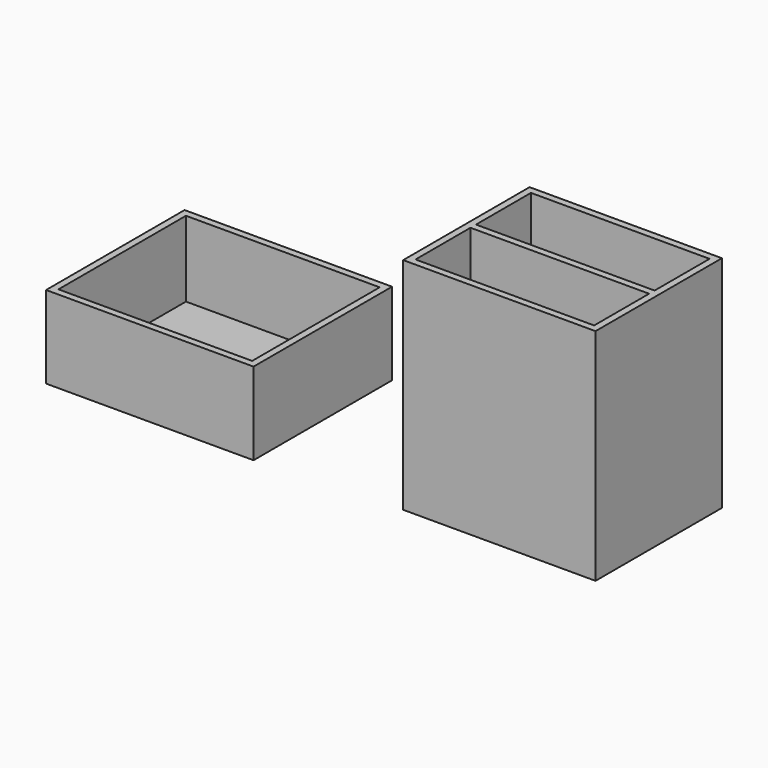
from build123d import *

# Parameters (mm, degrees)
SKETCH_W        = 70
SKETCH_H        = 57.5
PAD_DEPTH       = 80
SKETCH001_W     = 65
SKETCH001_H     = 25
POCKET_DEPTH    = 75
SKETCH002_W     = 75.5
SKETCH002_H     = 63
PAD001_DEPTH    = 30
SKETCH003_W     = 70.5
SKETCH003_H     = 58
POCKET001_DEPTH = 27.5


with BuildPart() as box:
    # Sketch → Pad (new body)
    with BuildSketch(Plane.XY):
        Rectangle(SKETCH_W, SKETCH_H)
    extrude(amount=PAD_DEPTH)

    # Sketch001 (on Face6 of Pad) → Pocket (cut)
    with BuildSketch(Plane.XY.offset(80)):
        with Locations((0, 13.75)):
            Rectangle(SKETCH001_W, SKETCH001_H)
        with Locations((0, -13.75)):
            Rectangle(SKETCH001_W, SKETCH001_H)
    extrude(amount=-POCKET_DEPTH, mode=Mode.SUBTRACT)


with BuildPart() as lid:
    # Sketch002 → Pad001 (new body)
    with BuildSketch(Plane.XY):
        with Locations((-125, 0)):
            Rectangle(SKETCH002_W, SKETCH002_H)
    extrude(amount=PAD001_DEPTH)

    # Sketch003 (on Face6 of Pad001) → Pocket001 (cut)
    with BuildSketch(Plane.XY.offset(30)):
        with Locations((-125, 0)):
            Rectangle(SKETCH003_W, SKETCH003_H)
    extrude(amount=-POCKET001_DEPTH, mode=Mode.SUBTRACT)


solid = Compound([box.part, lid.part])
